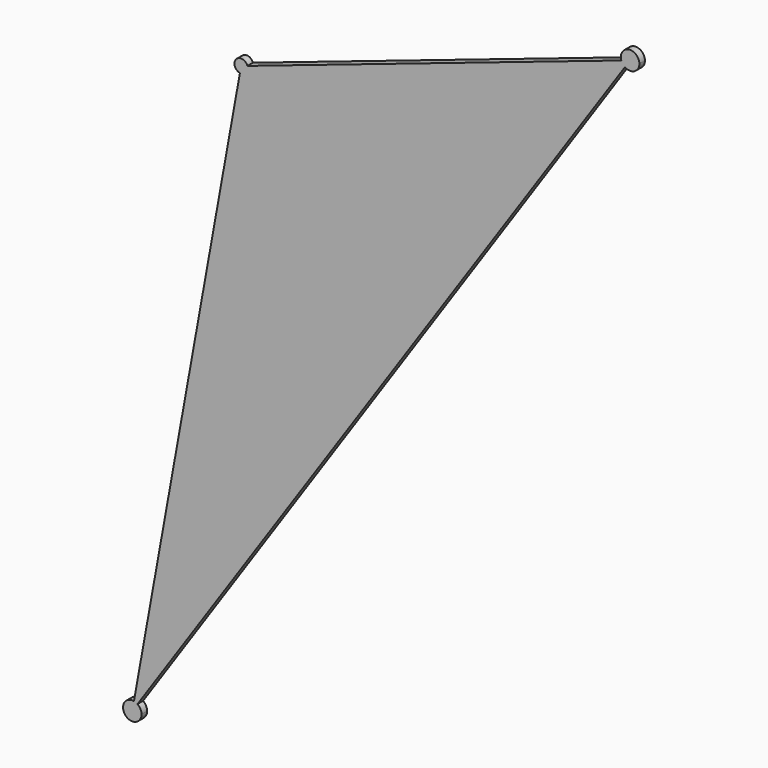
from build123d import *

# Parameters (mm, degrees)
F1_DEPTH = 2.54


with BuildPart() as f1:
    # F0 (on Front) → F1 (new body)
    with BuildSketch(Plane.XZ):
        with BuildLine():
            ThreePointArc((-145.7550496822, -1.980112821), (-145.6599833362, -2.3612365902), (-145.6280121514, -2.752734714))
            ThreePointArc((-145.6280121514, -2.752734714), (-146.4936146234, -4.6042556807), (-148.4693962296, -5.1274043924))
            Line((-148.4693962296, -5.1274043924), (-187.0211775011, -218.8322330784))
            ThreePointArc((-187.0211775011, -218.8322330784), (-186.3483570952, -219.0277166776), (-185.7305923943, -219.3582736479))
            Line((-185.7305923943, -219.3582736479), (-8.4100794876, 42.2926197897))
            ThreePointArc((-8.4100794876, 42.2926197897), (-9.2000837984, 43.0403550137), (-9.7103273998, 44.0010142893))
            Line((-9.7103273998, 44.0010142893), (-145.7550496822, -1.980112821))
        make_face()
        with BuildLine():
            ThreePointArc((-3.1565113243, 45.0786185085), (-7.0680481812, 48.3995271192), (-9.7103273998, 44.0010142893))
            Line((-9.7103273998, 44.0010142893), (-6.5220113243, 45.0786185085))
            Line((-6.5220113243, 45.0786185085), (-8.4100794876, 42.2926197897))
            ThreePointArc((-8.4100794876, 42.2926197897), (-4.9452588316, 42.1053304587), (-3.1565113243, 45.0786185085))
        make_face()
        with BuildLine():
            Line((-6.5220113243, 45.0786185085), (-9.7103273998, 44.0010142893))
            ThreePointArc((-9.7103273998, 44.0010142893), (-9.2000837984, 43.0403550137), (-8.4100794876, 42.2926197897))
            Line((-8.4100794876, 42.2926197897), (-6.5220113243, 45.0786185085))
        make_face()
        with BuildLine():
            ThreePointArc((-148.4693962296, -5.1274043924), (-146.4936146234, -4.6042556807), (-145.6280121514, -2.752734714))
            ThreePointArc((-145.6280121514, -2.752734714), (-145.6599833362, -2.3612365902), (-145.7550496822, -1.980112821))
            Line((-145.7550496822, -1.980112821), (-148.0410121514, -2.752734714))
            Line((-148.0410121514, -2.752734714), (-148.4693962296, -5.1274043924))
        make_face()
        with BuildLine():
            Line((-148.0410121514, -2.752734714), (-145.7550496822, -1.980112821))
            ThreePointArc((-145.7550496822, -1.980112821), (-149.8683080849, -1.1768036966), (-148.4693962296, -5.1274043924))
            Line((-148.4693962296, -5.1274043924), (-148.0410121514, -2.752734714))
        make_face()
        with BuildLine():
            Line((-187.6186605575, -222.1442723667), (-187.0211775011, -218.8322330784))
            ThreePointArc((-187.0211775011, -218.8322330784), (-190.2010450638, -224.3024847084), (-184.2531605575, -222.1442723667))
            ThreePointArc((-184.2531605575, -222.1442723667), (-184.6453725078, -220.567519874), (-185.7305923943, -219.3582736479))
            Line((-185.7305923943, -219.3582736479), (-187.6186605575, -222.1442723667))
        make_face()
        with BuildLine():
            ThreePointArc((-185.7305923943, -219.3582736479), (-186.3483570952, -219.0277166776), (-187.0211775011, -218.8322330784))
            Line((-187.0211775011, -218.8322330784), (-187.6186605575, -222.1442723667))
            Line((-187.6186605575, -222.1442723667), (-185.7305923943, -219.3582736479))
        make_face()
    extrude(amount=F1_DEPTH)


solid = f1.part
